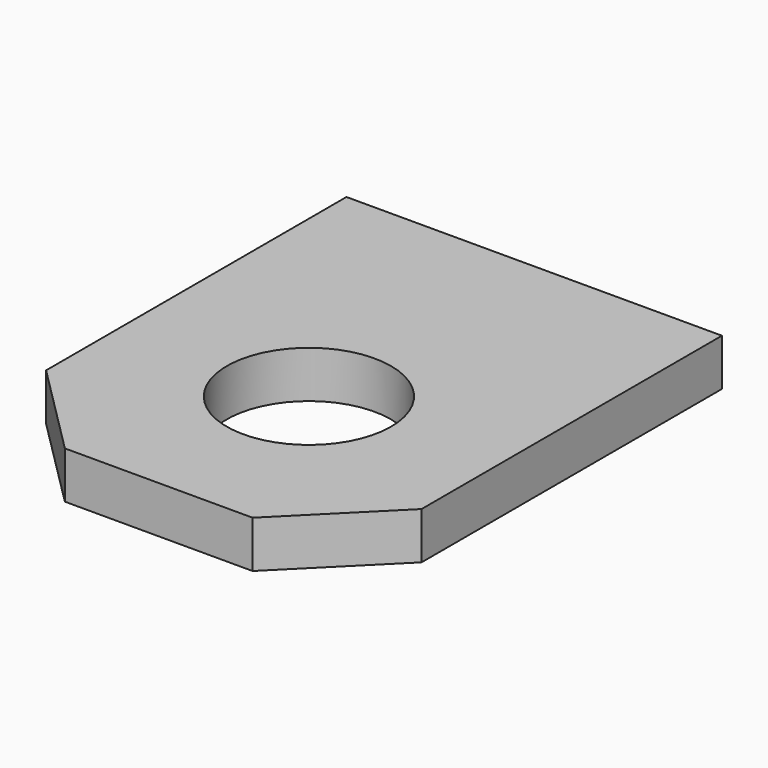
from build123d import *

# Parameters (mm, degrees)
F0_R     = 8.75
F1_DEPTH = 5
F2_SIZE  = 10


with BuildPart() as f1:
    # F0 (on Top) → F1 (new body)
    with BuildSketch(Plane.XY):
        Polygon((20, 0), (0, 0), (-20, 0), (-20, -50), (20, -50), align=None)
        with Locations((0, -30)):
            Circle(F0_R, mode=Mode.SUBTRACT)
    extrude(amount=F1_DEPTH)

    # F2
    f2_edges = [f1.edges().sort_by_distance(p)[0] for p in [
        (-20, -50, 2.5),
        (20, -50, 2.5),
    ]]
    chamfer(f2_edges, length=F2_SIZE)


solid = f1.part
